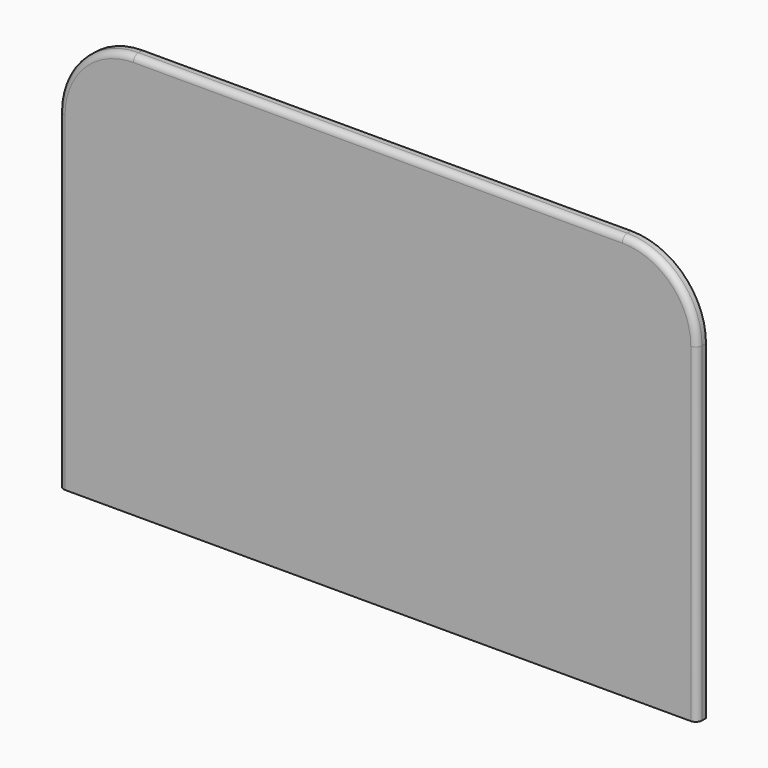
from build123d import *

# Parameters (mm, degrees)
F1_DEPTH = 18
F2_R     = 10


with BuildPart() as f1:
    # F0 (on Front) → F1 (new body)
    with BuildSketch(Plane.XZ):
        with BuildLine():
            ThreePointArc((512.5, 205), (477.352814, 289.852814), (392.5, 325))
            Line((392.5, 325), (-392.5, 325))
            ThreePointArc((-392.5, 325), (-477.352814, 289.852814), (-512.5, 205))
            Line((-512.5, 205), (-512.5, -325))
            Line((-512.5, -325), (512.5, -325))
            Line((512.5, -325), (512.5, 205))
        make_face()
    extrude(amount=F1_DEPTH)

    # F2
    f2_edges = [f1.edges().sort_by_distance(p)[0] for p in [
        (0, -18, 325),
    ]]
    fillet(f2_edges, radius=F2_R)


solid = f1.part
